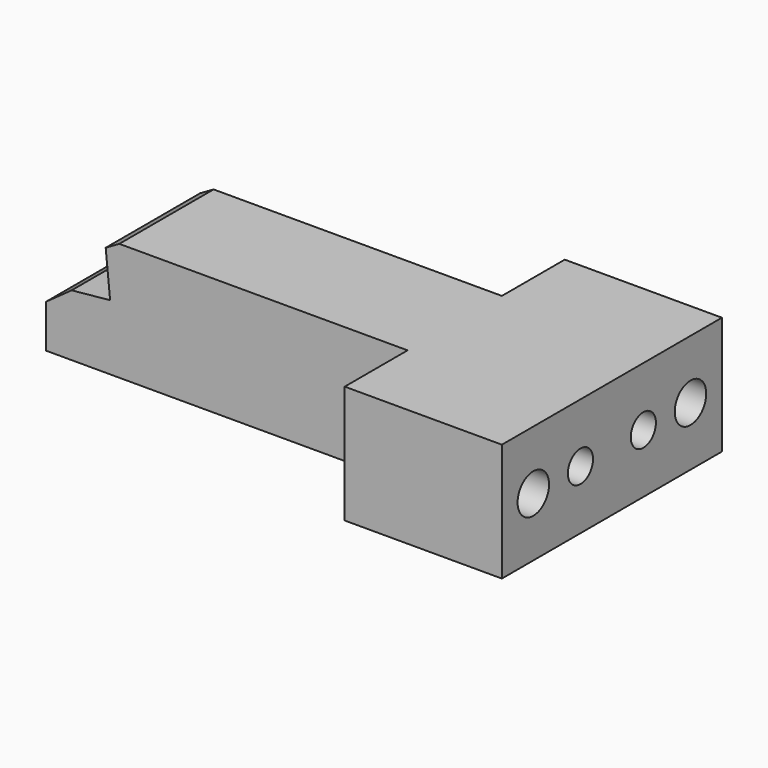
from build123d import *

# Parameters (mm, degrees)
F0_W      = 20
F0_H      = 7.5
F1_DEPTH  = 35
F2_W      = 36.682897
F2_H      = 10
F3_DEPTH  = 15.001
F4_R      = 2.5
F5_DEPTH  = 20.001
F7_W      = 23.5301591456
F7_H      = 12.1317058802
F8_DEPTH  = 25
F6_R      = 2
F11_DEPTH = 6


with BuildPart() as f1:
    # F0 (on Front) → F1 (new body)
    with BuildSketch(Plane.XZ):
        Polygon((61.530317, -30.704832), (61.530317, -23.204832), (24.84742, -23.204832), (23.115369, -24.204832), (23.679145, -29.89786), (18.780462, -30.382973), (15.530317, -32.714615), (15.530317, -38.204832), (61.530317, -38.204832), align=None)
        with Locations((71.530317, -26.954832)):
            Rectangle(F0_W, F0_H)
        with Locations((71.530317, -34.454832)):
            Rectangle(F0_W, F0_H)
    extrude(amount=F1_DEPTH)

    # F2 (on face) → F3 (cut, through all)
    with BuildSketch(Plane.XY.offset(-23.204832)):
        with Locations((43.1888685, -5)):
            Rectangle(F2_W, F2_H)
        Polygon((24.84742, -10), (24.84742, 0), (23.679145, 0), (23.115369, 0), (18.780462, 0), (15.530317, 0), (15.530317, -10), (18.780462, -10), (23.115369, -10), (23.679145, -10), align=None)
        with Locations((43.1888685, -30)):
            Rectangle(F2_W, F2_H)
        Polygon((24.84742, -35), (24.84742, -25), (23.679145, -25), (23.115369, -25), (18.780462, -25), (15.530317, -25), (15.530317, -35), (18.780462, -35), (23.115369, -35), (23.679145, -35), align=None)
    extrude(amount=-F3_DEPTH, mode=Mode.SUBTRACT)

    # F4 (on face) → F5 (cut, through all)
    with BuildSketch(Plane(origin=(61.530317, 0, 0), x_dir=(0, -1, 0), z_dir=(-1, 0, 0))):
        with Locations((30, -30.704832)):
            Circle(F4_R)
        with Locations((5, -30.704832)):
            Circle(F4_R)
    extrude(amount=-F5_DEPTH, mode=Mode.SUBTRACT)

    # F6 (on face) → F11 (cut)
    with BuildSketch(Plane.YZ.offset(81.530317)):
        with Locations((-12.5, -30.704832)):
            Circle(F6_R)
        with Locations((-22.5, -30.704832)):
            Circle(F6_R)
    extrude(amount=-F11_DEPTH, mode=Mode.SUBTRACT)


with BuildPart() as f8:
    # F7 (on Right) → F8 (new body)
    with BuildSketch(Plane.YZ):
        with Locations((-54.0060605854, 53.4663982689)):
            Rectangle(F7_W, F7_H)
    extrude(amount=F8_DEPTH)


with BuildPart() as f9_1:
    # F9: copy of F8
    add(f8.part.moved(Location((0, -65, 0))))


solid = f1.part
